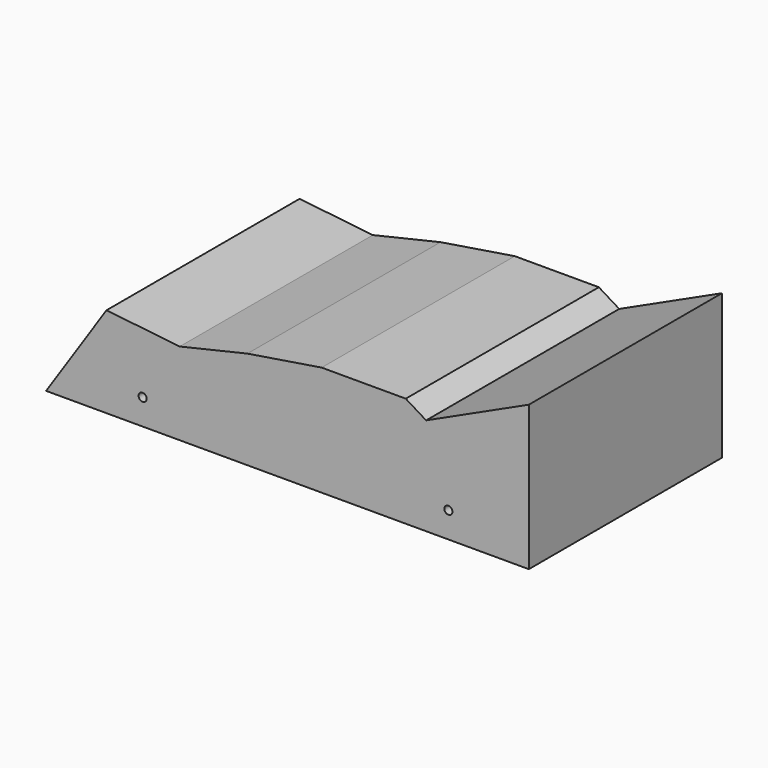
from build123d import *

# Parameters (mm, degrees)
F1_DEPTH = 25
F2_DEPTH = 50
F3_DEPTH = 25
F5_DEPTH = 25
F6_DEPTH = 50.001
F7_DEPTH = 25


with BuildPart() as f1:
    # F0 (on Front) → F1 (new body)
    with BuildSketch(Plane.XZ):
        Polygon((60.0000005501, 22.5), (-59.9999994499, 22.5), (-90.0000005501, -22.5), (-60.0000005501, -22.5), (34.9999994499, -22.5), (59.9999994499, -22.5), align=None)
        with BuildLine():
            ThreePointArc((-60.0000005501, -15.75), (-60.8838840266, -13.6161165235), (-58.7500005501, -14.5))
            ThreePointArc((-58.7500005501, -14.5), (-59.1161170737, -15.3838834765), (-60.0000005501, -15.75))
        make_face(mode=Mode.SUBTRACT)
        with BuildLine():
            ThreePointArc((34.9999994499, -15.75), (34.1161159734, -13.6161165235), (36.2499994499, -14.5))
            ThreePointArc((36.2499994499, -14.5), (35.8838829263, -15.3838834765), (34.9999994499, -15.75))
        make_face(mode=Mode.SUBTRACT)
    extrude(amount=F1_DEPTH)

    # F0 (on Front) → F2 (join)
    with BuildSketch(Plane.XZ):
        Polygon((60.0000005501, 22.5), (-59.9999994499, 22.5), (-90.0000005501, -22.5), (-60.0000005501, -22.5), (34.9999994499, -22.5), (59.9999994499, -22.5), align=None)
        with BuildLine():
            ThreePointArc((-60.0000005501, -15.75), (-60.8838840266, -13.6161165235), (-58.7500005501, -14.5))
            ThreePointArc((-58.7500005501, -14.5), (-59.1161170737, -15.3838834765), (-60.0000005501, -15.75))
        make_face(mode=Mode.SUBTRACT)
        with BuildLine():
            ThreePointArc((34.9999994499, -15.75), (34.1161159734, -13.6161165235), (36.2499994499, -14.5))
            ThreePointArc((36.2499994499, -14.5), (35.8838829263, -15.3838834765), (34.9999994499, -15.75))
        make_face(mode=Mode.SUBTRACT)
    extrude(amount=F2_DEPTH)

    # F0 (on Front) → F3 (join)
    with BuildSketch(Plane.XZ):
        Polygon((60.0000005501, 22.5), (-59.9999994499, 22.5), (-90.0000005501, -22.5), (-60.0000005501, -22.5), (34.9999994499, -22.5), (59.9999994499, -22.5), align=None)
        with BuildLine():
            ThreePointArc((-60.0000005501, -15.75), (-60.8838840266, -13.6161165235), (-58.7500005501, -14.5))
            ThreePointArc((-58.7500005501, -14.5), (-59.1161170737, -15.3838834765), (-60.0000005501, -15.75))
        make_face(mode=Mode.SUBTRACT)
        with BuildLine():
            ThreePointArc((34.9999994499, -15.75), (34.1161159734, -13.6161165235), (36.2499994499, -14.5))
            ThreePointArc((36.2499994499, -14.5), (35.8838829263, -15.3838834765), (34.9999994499, -15.75))
        make_face(mode=Mode.SUBTRACT)
    extrude(amount=F3_DEPTH)

    # F4 (on face) → F5 (cut)
    with BuildSketch(Plane.XZ.offset(50)):
        Polygon((-59.9999994499, 22.5), (-71.2320403303, 5.6519392973), (-48.4728738666, 3.1374983955), (-27.4437088519, 8.0374982208), (-4.3728742748, 11.7124989629), (21.7604581267, 11.7124989629), (28.0896257609, 7.8333318233), (60.0000005501, 22.5), align=None)
    extrude(amount=-F5_DEPTH, mode=Mode.SUBTRACT)

    # F4 (on face) → F6 (cut, through all)
    with BuildSketch(Plane.XZ.offset(50)):
        Polygon((-59.9999994499, 22.5), (-71.2320403303, 5.6519392973), (-48.4728738666, 3.1374983955), (-27.4437088519, 8.0374982208), (-4.3728742748, 11.7124989629), (21.7604581267, 11.7124989629), (28.0896257609, 7.8333318233), (60.0000005501, 22.5), align=None)
    extrude(amount=-F6_DEPTH, mode=Mode.SUBTRACT)

    # F7 (add): a face of the model
    f7_faces = [f1.faces().sort_by_distance(p)[0] for p in [
        (-5.3315876284, -50, -6.3878116197),
    ]]
    extrude(f7_faces, amount=F7_DEPTH)


solid = f1.part
